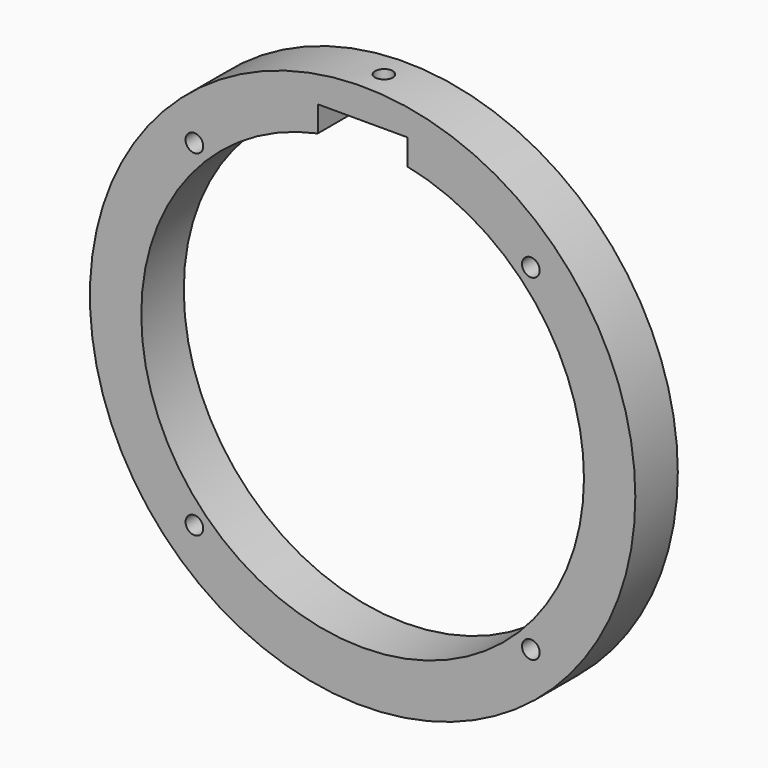
from build123d import *

# Parameters (mm, degrees)
F0_R     = 77
F0_R_2   = 62.5
F1_DEPTH = 15
F3_D     = 5
F5_DEPTH = 25
F7_D     = 5
F7_DEPTH = 12


with BuildPart() as f1:
    # F0 (on Front) → F1 (new body)
    with BuildSketch(Plane.XZ):
        Circle(F0_R)
        Circle(F0_R_2, mode=Mode.SUBTRACT)
    extrude(amount=F1_DEPTH)

    # F3 (through all)
    with Locations(Plane(origin=(0, 0, 0), x_dir=(1, 0, 0), z_dir=(0, 1, 0))):
        with Locations((-47.5, 47.5), (47.5, 47.5), (47.5, -47.5), (-47.5, -47.5)):
            Hole(F3_D / 2)

    # F4 (on face) → F5 (cut)
    with BuildSketch(Plane.XZ.offset(15)):
        with BuildLine():
            Line((12.658332, 68.463892), (-12.658332, 68.463892))
            Line((-12.658332, 68.463892), (-12.658332, 61.204711))
            ThreePointArc((-12.658332, 61.204711), (0, 62.5), (12.658332, 61.204711))
            Line((12.658332, 61.204711), (12.658332, 68.463892))
        make_face()
    extrude(amount=-F5_DEPTH, mode=Mode.SUBTRACT)

    # F7
    with Locations(Plane(origin=(0, 0, 68.463892), x_dir=(1, 0, 0), z_dir=(0, 0, -1))):
        with Locations((0, 7.5)):
            Hole(F7_D / 2, depth=F7_DEPTH)


solid = f1.part
